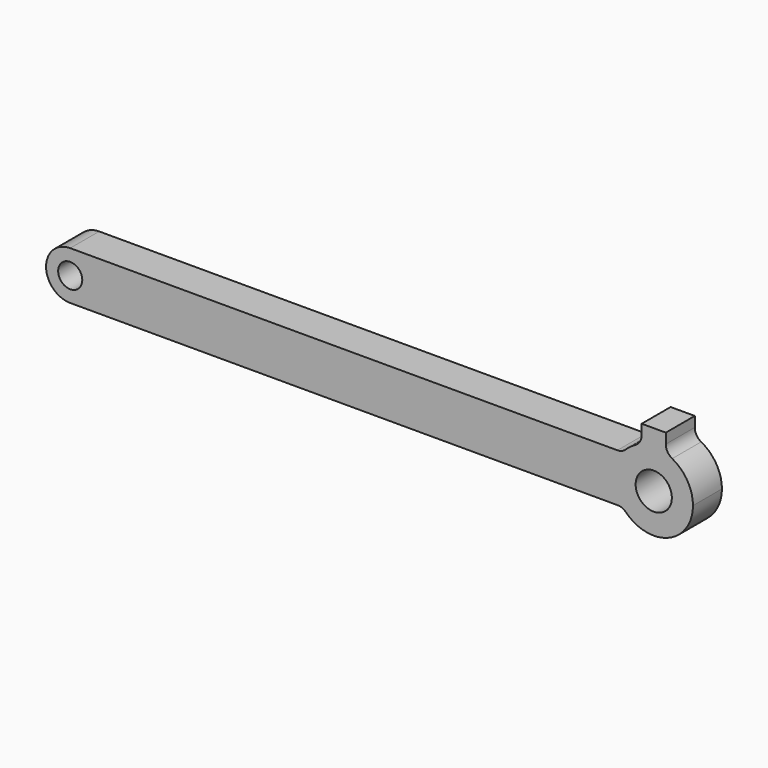
from build123d import *

# Parameters (mm, degrees)
F0_R     = 3.175
F0_R_2   = 4.7625
F1_DEPTH = 9.525
F2_R     = 3.175


with BuildPart() as f1:
    # F0 (on Front) → F1 (new body)
    with BuildSketch(Plane.XZ):
        with BuildLine():
            ThreePointArc((-63.197116, 6.35), (-58.706988, 4.490128), (-56.847116, 0))
            ThreePointArc((-56.847116, 0), (-58.706988, -4.490128), (-63.197116, -6.35))
            Line((-63.197116, -6.35), (82.212367, -6.35))
            ThreePointArc((82.212367, -6.35), (80.027134, 0), (82.212367, 6.35))
            Line((82.212367, 6.35), (-63.197116, 6.35))
        make_face()
        with BuildLine():
            ThreePointArc((-63.197116, -6.35), (-58.706988, -4.490128), (-56.847116, 0))
            ThreePointArc((-56.847116, 0), (-58.706988, 4.490128), (-63.197116, 6.35))
            ThreePointArc((-63.197116, 6.35), (-69.547116, 0), (-63.197116, -6.35))
        make_face()
        with Locations((-63.197116, 0)):
            Circle(F0_R, mode=Mode.SUBTRACT)
        with BuildLine():
            ThreePointArc((87.170884, 9.818145), (84.431693, 8.455705), (82.212367, 6.35))
            ThreePointArc((82.212367, 6.35), (80.027134, 0), (82.212367, -6.35))
            ThreePointArc((82.212367, -6.35), (93.703627, -9.75716), (100.664634, 0))
            ThreePointArc((100.664634, 0), (98.689703, 6.07102), (93.520884, 9.818145))
            ThreePointArc((93.520884, 9.818145), (90.345884, 10.31875), (87.170884, 9.818145))
        make_face()
        with Locations((90.345884, 0)):
            Circle(F0_R_2, mode=Mode.SUBTRACT)
        with BuildLine():
            Line((87.170884, 14.580645), (87.170884, 9.818145))
            ThreePointArc((87.170884, 9.818145), (90.345884, 10.31875), (93.520884, 9.818145))
            Line((93.520884, 9.818145), (93.520884, 14.580645))
            Line((93.520884, 14.580645), (87.170884, 14.580645))
        make_face()
    extrude(amount=F1_DEPTH)

    # F2
    f2_edges = [f1.edges().sort_by_distance(p)[0] for p in [
        (82.212367, -4.7625, 6.35),
        (87.170884, -4.7625, 9.818145),
        (93.520884, -4.7625, 9.818145),
        (82.212367, -4.7625, -6.35),
    ]]
    fillet(f2_edges, radius=F2_R)


solid = f1.part
